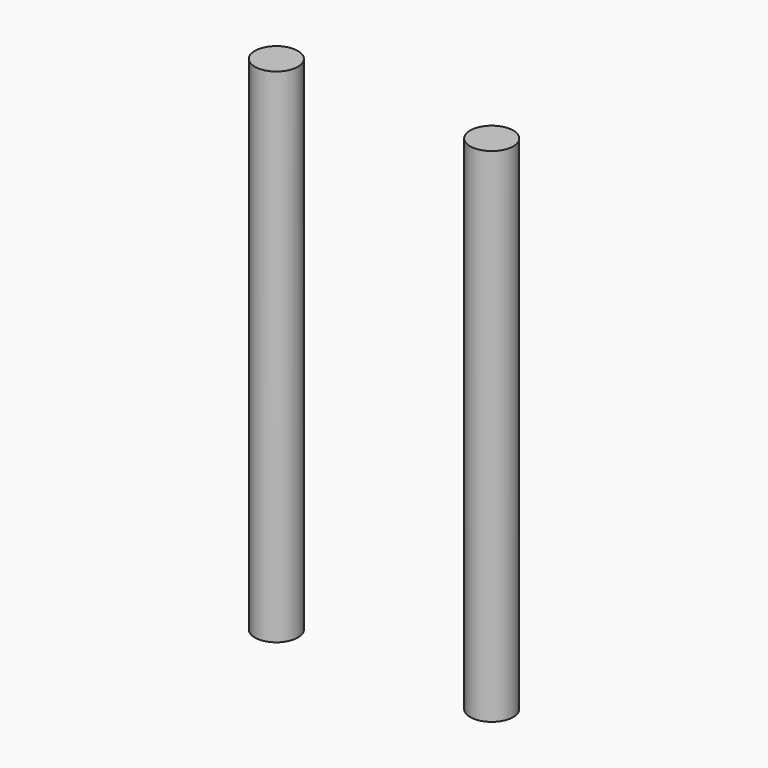
from build123d import *

# Parameters (mm, degrees)
CYLINDER008_R     = 1.2
CYLINDER008_DEPTH = 28
CYLINDER009_R     = 1.2
CYLINDER009_DEPTH = 28


with BuildPart() as cylinder008:
    # Cylinder008 → Cylinder008 (new body)
    with BuildSketch(Plane(origin=(6, -6.3, 0), x_dir=(1, 0, 0), z_dir=(0, 0, 1))):
        Circle(CYLINDER008_R)
    extrude(amount=CYLINDER008_DEPTH)


with BuildPart() as fusion004002:
    # Cylinder009 → Cylinder009 (new body)
    with BuildSketch(Plane(origin=(-6, -6.3, 0), x_dir=(1, 0, 0), z_dir=(0, 0, 1))):
        Circle(CYLINDER009_R)
    extrude(amount=CYLINDER009_DEPTH)

    # Fusion004002: union Cylinder008
    add(cylinder008.part)


solid = fusion004002.part
